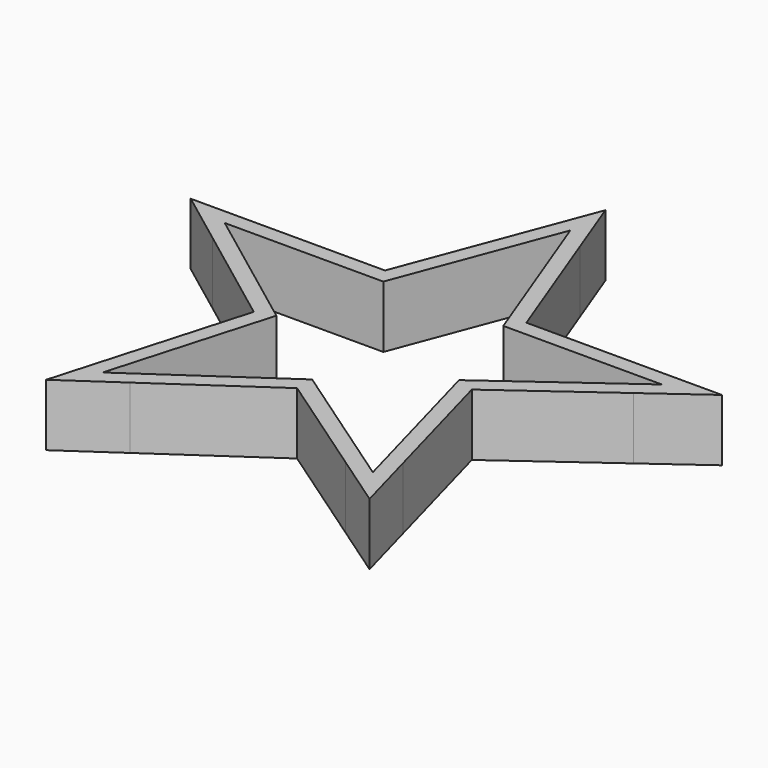
from build123d import *

# Parameters (mm, degrees)
F1_DEPTH = 6.35


with BuildPart() as f1:
    # F0 (on Top) → F1 (new body, symmetric)
    with BuildSketch(Plane.XY):
        Polygon((-44.789236, 14.552905), (-40.419224, 17.727905), (-54.301441, 17.727905), (-43.082257, 9.299362), align=None)
        Polygon((-27.68127, -38.1), (-18.27958, -5.362784), (-44.789236, 14.552905), (-43.082257, 9.299362), (-21.934765, -6.587938), (-29.434755, -32.703328), align=None)
        Polygon((-12.292903, 14.552905), (0, 47.09419), (-4.677891, 43.695503), (-14.487496, 17.727905), (-40.419224, 17.727905), (-44.789236, 14.552905), align=None)
        Polygon((-4.677891, 43.695503), (0, 47.09419), (4.677891, 43.695503), (0, 56.078631), align=None)
        Polygon((4.677891, 43.695503), (0, 47.09419), (12.292903, 14.552905), (44.789236, 14.552905), (40.419224, 17.727905), (14.487496, 17.727905), align=None)
        Polygon((54.560881, 17.727905), (40.419224, 17.727905), (44.789236, 14.552905), (43.12004, 9.415647), align=None)
        Polygon((43.12004, 9.415647), (44.789236, 14.552905), (18.49915, -4.547961), (27.68127, -38.1), (29.468066, -32.600809), (22.140832, -5.82664), align=None)
        Polygon((29.468066, -32.600809), (27.68127, -38.1), (22.080786, -38.1), (33.036342, -45.639515), align=None)
        Polygon((27.68127, -38.1), (0, -19.05), (-27.68127, -38.1), (-22.080786, -38.1), (0, -22.904203), (22.080786, -38.1), align=None)
        Polygon((-22.080786, -38.1), (-27.68127, -38.1), (-29.434755, -32.703328), (-33.177816, -45.736876), align=None)
    extrude(amount=F1_DEPTH, both=True)


solid = f1.part
